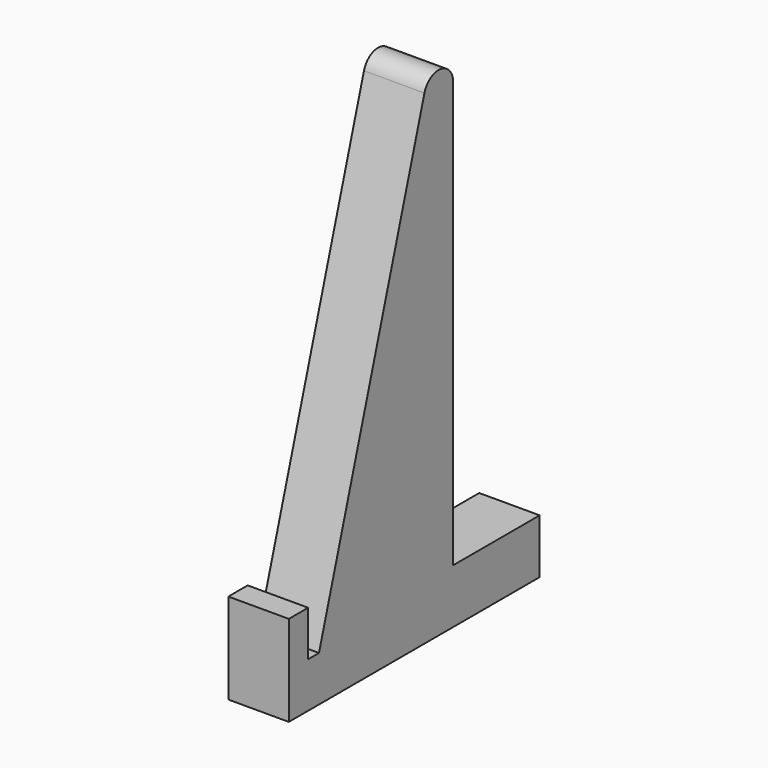
from build123d import *

# Parameters (mm, degrees)
F0_W     = 12.1363507145
F0_H     = 8.9991581862
F1_DEPTH = 10
F2_R     = 3.0408929123


with BuildPart() as f1:
    # F0 (on Right) → F1 (new body)
    with BuildSketch(Plane.YZ):
        Polygon((-14.7514826591, 1.1445179262), (-26.8878333736, 1.1445179262), (-26.8878333736, 1.1436761124), (3.1121666264, 1.1436761124), (3.1121666264, 10.1436761124), (-14.7514826591, 10.1436761124), align=None)
        with Locations((-20.8196580164, 5.6440970193)):
            Rectangle(F0_W, F0_H)
        Polygon((-44.7503355374, 1.1483416653), (-44.7514826591, 1.1445179262), (-26.8878333736, 1.1445179262), (-26.8878333736, 10.1436761124), (-14.7514826591, 10.1436761124), (-14.7514826591, 101.1445179262), (-42.5003355374, 8.6483416653), (-40.2435733936, 8.6483416653), (-40.2435733936, 1.1483416653), (-44.7435733936, 1.1483416653), align=None)
        Polygon((-48.7435733936, 1.1483416653), (-44.7503355374, 1.1483416653), (-44.7435733936, 1.1708821449), (-44.7435733936, 8.6483416653), (-44.7435733936, 16.1483416653), (-48.7435733936, 16.1483416653), align=None)
        Polygon((-44.7435733936, 8.6483416653), (-44.7435733936, 1.1708821449), (-42.5003355374, 8.6483416653), align=None)
        Polygon((-42.5003355374, 8.6483416653), (-44.7435733936, 1.1708821449), (-44.7435733936, 1.1483416653), (-40.2435733936, 1.1483416653), (-40.2435733936, 8.6483416653), align=None)
        Polygon((-44.7435733936, 1.1708821449), (-44.7503355374, 1.1483416653), (-44.7435733936, 1.1483416653), align=None)
    extrude(amount=F1_DEPTH)

    # F2
    f2_edges = [f1.edges().sort_by_distance(p)[0] for p in [
        (5, -14.751483, 101.144518),
    ]]
    fillet(f2_edges, radius=F2_R)


solid = f1.part
